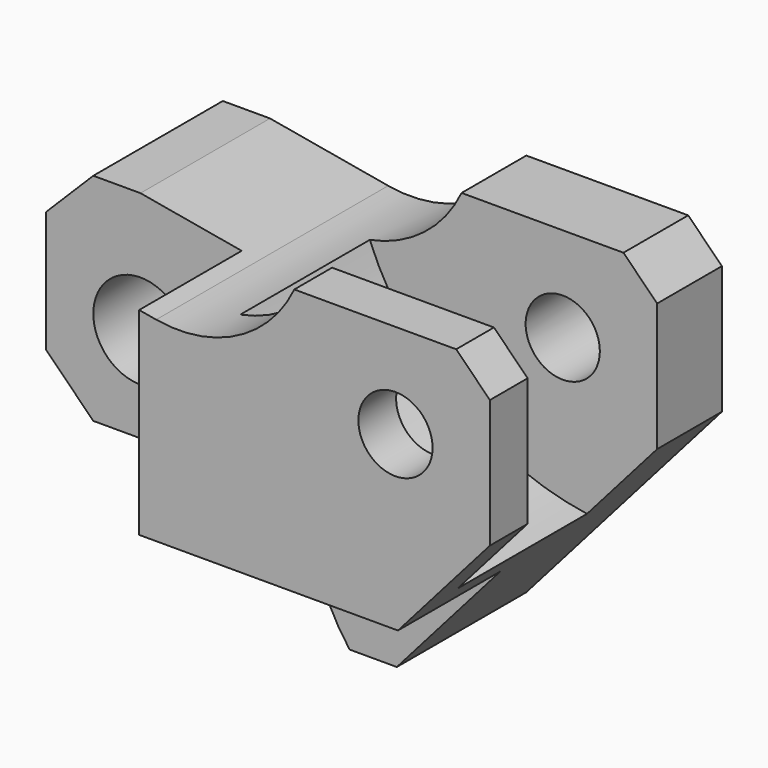
from build123d import *

# Parameters (mm, degrees)
F0_R      = 7
F1_DEPTH  = 43
F2_W      = 81
F2_H      = 19
F3_DEPTH  = 19
F4_W      = 29
F4_H      = 37.6470717937
F5_DEPTH  = 19
F6_R      = 5.5
F7_DEPTH  = 43.001
F10_DEPTH = 12


with BuildPart() as f1:
    # F0 (on Front) → F1 (new body)
    with BuildSketch(Plane.XZ):
        with BuildLine():
            Line((17.5183015976, 14.9110507722), (0, 18))
            Line((0, 18), (-7, 18))
            Line((-7, 18), (-14, 11))
            Line((-14, 11), (-14, -7))
            Line((-14, -7), (-7, -14))
            Line((-7, -14), (20.5039936013, -14))
            ThreePointArc((20.5039936013, -14), (23.7692293823, -15.2134137678), (25.4496323427, -18.2647058824))
            ThreePointArc((25.4496323427, -18.2647058824), (27.3946303601, -25.2244414792), (31, -31.4872081702))
            Line((31, -31.4872081702), (38, -31.4872081702))
            Line((38, -31.4872081702), (67, 1.5127918298))
            Line((67, 1.5127918298), (67, 20.5127918298))
            Line((67, 20.5127918298), (62, 25.5127918298))
            Line((62, 25.5127918298), (38, 25.5127918298))
            ThreePointArc((38, 25.5127918298), (29.5516950708, 16.748872076), (17.5183015976, 14.9110507722))
        make_face()
        Circle(F0_R, mode=Mode.SUBTRACT)
    extrude(amount=-F1_DEPTH)

    # F2 (on face) → F3 (cut)
    with BuildSketch(Plane.XZ):
        with Locations((26.5, -23.5)):
            Rectangle(F2_W, F2_H)
    extrude(amount=-F3_DEPTH, mode=Mode.SUBTRACT)

    # F4 (on face) → F5 (cut)
    with BuildSketch(Plane.XZ):
        with Locations((0.5, 4.8235358968)):
            Rectangle(F4_W, F4_H)
    extrude(amount=-F5_DEPTH, mode=Mode.SUBTRACT)

    # F6 (on face) → F7 (cut, through all)
    with BuildSketch(Plane.XZ):
        with Locations((53, 11.5127918298)):
            Circle(F6_R)
    extrude(amount=-F7_DEPTH, mode=Mode.SUBTRACT)

    # F9 (on offset) → F10 (cut, symmetric)
    with BuildSketch(Plane.XZ.offset(-19)):
        with BuildLine():
            ThreePointArc((21.6885041445, 25.6739929318), (36.8569687391, -1.7884864667), (67, -10.4872081702))
            Line((67, -10.4872081702), (67, 25.5127918298))
            Line((67, 25.5127918298), (21.6885041445, 25.6739929318))
        make_face()
    extrude(amount=F10_DEPTH, both=True, mode=Mode.SUBTRACT)


solid = f1.part
